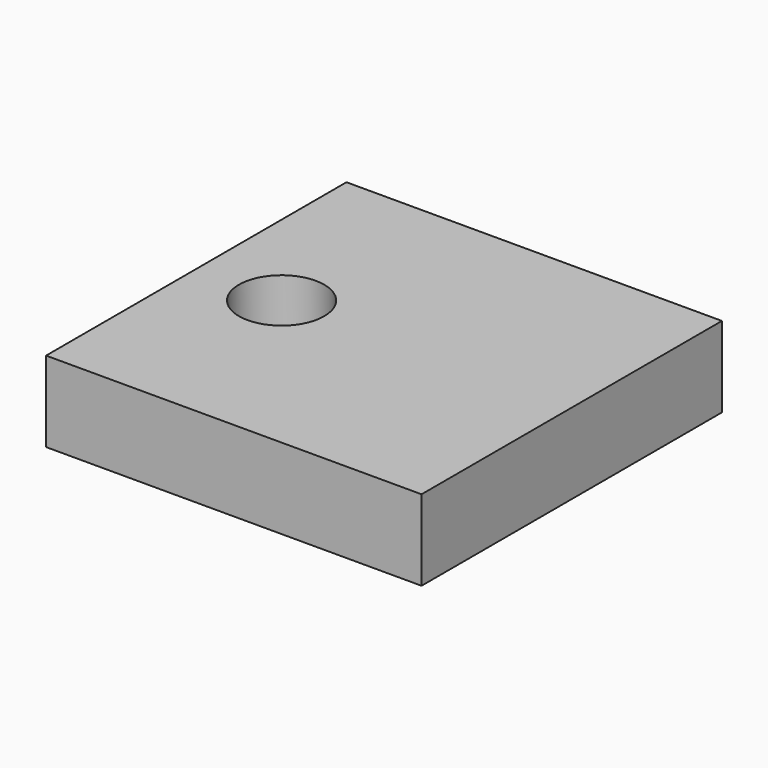
from build123d import *

# Parameters (mm, degrees)
F0_W     = 55.88
F0_H     = 55.88
F1_DEPTH = 5.9944
F2_R     = 6.35
F3_DEPTH = 11.9888


with BuildPart() as f1:
    # F0 (on Top) → F1 (new body, symmetric)
    with BuildSketch(Plane.XY):
        Rectangle(F0_W, F0_H)
    extrude(amount=F1_DEPTH, both=True)

    # F2 (on face) → F3 (cut, through all)
    with BuildSketch(Plane.XY.offset(5.9944)):
        with Locations((-15.24, 0)):
            Circle(F2_R)
    extrude(amount=-F3_DEPTH, mode=Mode.SUBTRACT)


solid = f1.part
